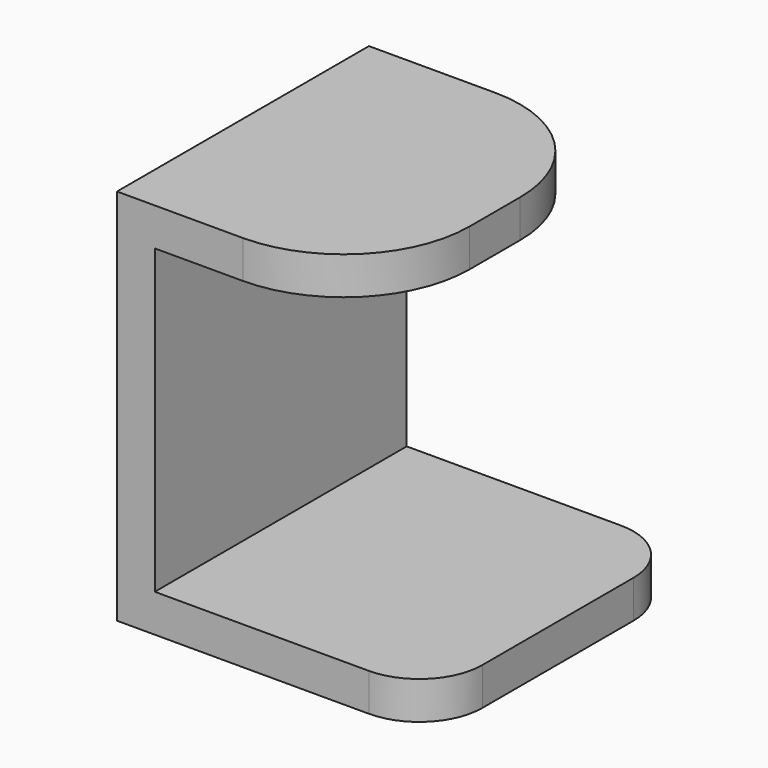
from build123d import *

# Parameters (mm, degrees)
F0_W     = 3
F0_H     = 3
F0_W_2   = 22
F0_H_2   = 24
F0_W_3   = 17
F1_DEPTH = 12.5
F2_R     = 10
F3_R     = 5


with BuildPart() as f1:
    # F0 (on Front) → F1 (new body, symmetric)
    with BuildSketch(Plane.XZ):
        with Locations((1.5, 1.5)):
            Rectangle(F0_W, F0_H)
        with Locations((14, 1.5)):
            Rectangle(F0_W_2, F0_H)
        with Locations((1.5, 15)):
            Rectangle(F0_W, F0_H_2)
        with Locations((1.5, 28.5)):
            Rectangle(F0_W, F0_H)
        with Locations((11.5, 28.5)):
            Rectangle(F0_W_3, F0_H)
    extrude(amount=F1_DEPTH, both=True)

    # F2
    f2_edges = [f1.edges().sort_by_distance(p)[0] for p in [
        (20, -12.5, 28.5),
        (20, 12.5, 28.5),
    ]]
    fillet(f2_edges, radius=F2_R)

    # F3
    f3_edges = [f1.edges().sort_by_distance(p)[0] for p in [
        (25, -12.5, 1.5),
        (25, 12.5, 1.5),
    ]]
    fillet(f3_edges, radius=F3_R)


solid = f1.part
